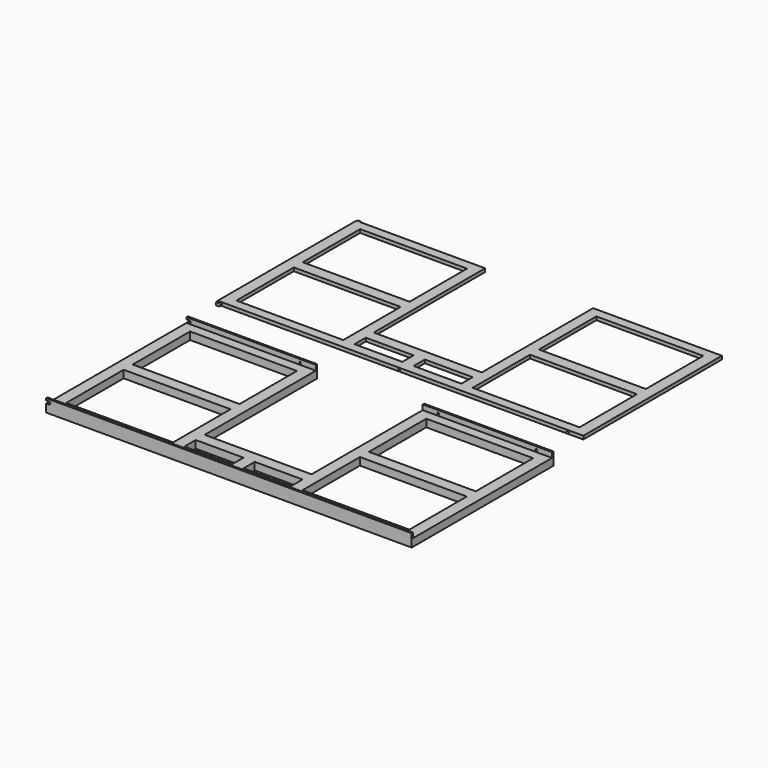
from build123d import *

# Parameters (mm, degrees)
BOX010_W          = 38
BOX010_H          = 25.5
BOX010_DEPTH      = 7.7
BOX009_W          = 38
BOX009_H          = 25.5
BOX009_DEPTH      = 7.7
BOX012_W          = 17
BOX012_H          = 5
BOX012_DEPTH      = 7.7
BOX011_W          = 17
BOX011_H          = 5
BOX011_DEPTH      = 7.7
BOX008_W          = 38
BOX008_H          = 25.5
BOX008_DEPTH      = 7.7
BOX007_W          = 38
BOX007_H          = 25.5
BOX007_DEPTH      = 7.7
BOX004_W          = 38.4
BOX004_H          = 50.2
BOX004_DEPTH      = 8
BOX003_W          = 130
BOX003_H          = 61.6
BOX003_DEPTH      = 1.2
BOX005_W          = 1
BOX005_H          = 63
BOX005_DEPTH      = 1
CYLINDER_R        = 0.5
CYLINDER_DEPTH    = 63
BOX002_W          = 38
BOX002_H          = 51
BOX002_DEPTH      = 6.5
CYLINDER001_R     = 0.5
CYLINDER001_DEPTH = 65
BOX006_W          = 1.5
BOX006_H          = 65
BOX006_DEPTH      = 1
BOX001_W          = 132
BOX001_H          = 61.8
BOX001_DEPTH      = 5.5
BOX_W             = 130
BOX_H             = 63
BOX_DEPTH         = 4.5


with BuildPart() as cube005:
    # Box010 → Box010 (new body)
    with BuildSketch(Plane(origin=(88, 33.5, -1), x_dir=(1, 0, 0), z_dir=(0, 0, 1))):
        with Locations((19, 12.75)):
            Rectangle(BOX010_W, BOX010_H)
    extrude(amount=BOX010_DEPTH)


with BuildPart() as cube004:
    # Box009 → Box009 (new body)
    with BuildSketch(Plane(origin=(4, 33.5, -1), x_dir=(1, 0, 0), z_dir=(0, 0, 1))):
        with Locations((19, 12.75)):
            Rectangle(BOX009_W, BOX009_H)
    extrude(amount=BOX009_DEPTH)


with BuildPart() as cube007:
    # Box012 → Box012 (new body)
    with BuildSketch(Plane(origin=(67, 4, -1), x_dir=(1, 0, 0), z_dir=(0, 0, 1))):
        with Locations((8.5, 2.5)):
            Rectangle(BOX012_W, BOX012_H)
    extrude(amount=BOX012_DEPTH)


with BuildPart() as cube006:
    # Box011 → Box011 (new body)
    with BuildSketch(Plane(origin=(46, 4, -1), x_dir=(1, 0, 0), z_dir=(0, 0, 1))):
        with Locations((8.5, 2.5)):
            Rectangle(BOX011_W, BOX011_H)
    extrude(amount=BOX011_DEPTH)


with BuildPart() as cube003:
    # Box008 → Box008 (new body)
    with BuildSketch(Plane(origin=(88, 4, -1), x_dir=(1, 0, 0), z_dir=(0, 0, 1))):
        with Locations((19, 12.75)):
            Rectangle(BOX008_W, BOX008_H)
    extrude(amount=BOX008_DEPTH)


with BuildPart() as cutaway:
    # Box007 → Box007 (new body)
    with BuildSketch(Plane(origin=(4, 4, -1), x_dir=(1, 0, 0), z_dir=(0, 0, 1))):
        with Locations((19, 12.75)):
            Rectangle(BOX007_W, BOX007_H)
    extrude(amount=BOX007_DEPTH)

    # Fusion006: union Cube005, Cube004, Cube007, Cube006, Cube003
    add(cube005.part)
    add(cube004.part)
    add(cube007.part)
    add(cube006.part)
    add(cube003.part)


with BuildPart() as sphere001:
    # Sphere001 → Sphere001 (revolve)
    with BuildSketch(Plane(origin=(64.45, 0.8, 3.35), x_dir=(1, 0, 0), z_dir=(0, -1, 0))):
        with BuildLine():
            ThreePointArc((0, -0.4), (0.4, 0), (0, 0.4))
            Line((0, 0.4), (0, -0.4))
        make_face()
    revolve(axis=Axis((64.45, 0.8, 3.35), (0, 0, 1)))


with BuildPart() as sphere002:
    # Sphere002 → Sphere002 (revolve)
    with BuildSketch(Plane(origin=(124.45, 62.2, 3.35), x_dir=(1, 0, 0), z_dir=(0, -1, 0))):
        with BuildLine():
            ThreePointArc((0, -0.4), (0.4, 0), (0, 0.4))
            Line((0, 0.4), (0, -0.4))
        make_face()
    revolve(axis=Axis((124.45, 62.2, 3.35), (0, 0, 1)))


with BuildPart() as sphere003:
    # Sphere003 → Sphere003 (revolve)
    with BuildSketch(Plane(origin=(40.45, 62.2, 3.35), x_dir=(1, 0, 0), z_dir=(0, -1, 0))):
        with BuildLine():
            ThreePointArc((0, -0.4), (0.4, 0), (0, 0.4))
            Line((0, 0.4), (0, -0.4))
        make_face()
    revolve(axis=Axis((40.45, 62.2, 3.35), (0, 0, 1)))


with BuildPart() as sphere004:
    # Sphere004 → Sphere004 (revolve)
    with BuildSketch(Plane(origin=(89.55, 62.2, 3.35), x_dir=(1, 0, 0), z_dir=(0, -1, 0))):
        with BuildLine():
            ThreePointArc((0, -0.4), (0.4, 0), (0, 0.4))
            Line((0, 0.4), (0, -0.4))
        make_face()
    revolve(axis=Axis((89.55, 62.2, 3.35), (0, 0, 1)))


with BuildPart() as sphere:
    # Sphere → Sphere (revolve)
    with BuildSketch(Plane(origin=(124.45, 0.8, 3.35), x_dir=(1, 0, 0), z_dir=(0, -1, 0))):
        with BuildLine():
            ThreePointArc((0, -0.4), (0.4, 0), (0, 0.4))
            Line((0, 0.4), (0, -0.4))
        make_face()
    revolve(axis=Axis((124.45, 0.8, 3.35), (0, 0, 1)))


with BuildPart() as hingeclips:
    # Fusion base: copy of Sphere
    add(sphere.part)

    # Fusion: union Sphere001, Sphere002, Sphere003, Sphere004
    add(sphere001.part)
    add(sphere002.part)
    add(sphere003.part)
    add(sphere004.part)


with BuildPart() as coverwindowcutaway:
    # Box004 → Box004 (new body)
    with BuildSketch(Plane(origin=(45.8, 12.8, -1), x_dir=(1, 0, 0), z_dir=(0, 0, 1))):
        with Locations((19.2, 25.1)):
            Rectangle(BOX004_W, BOX004_H)
    extrude(amount=BOX004_DEPTH)


with BuildPart() as coverbase:
    # Box003 → Box003 (new body)
    with BuildSketch(Plane(origin=(0, 0.7, 2.7), x_dir=(1, 0, 0), z_dir=(0, 0, 1))):
        with Locations((65, 30.8)):
            Rectangle(BOX003_W, BOX003_H)
    extrude(amount=BOX003_DEPTH)

    # Cut001: cut coverwindowcutaway
    add(coverwindowcutaway.part, mode=Mode.SUBTRACT)


with BuildPart() as coverbase_1:
    # Cut001 placement: moved
    add(coverbase.part.moved(Location((0, 0, 0.1))))


with BuildPart() as cube:
    # Box005 → Box005 (new body)
    with BuildSketch(Plane.XY.offset(2.8)):
        with Locations((0.5, 31.5)):
            Rectangle(BOX005_W, BOX005_H)
    extrude(amount=BOX005_DEPTH)


with BuildPart() as cutcover:
    # Cylinder → Cylinder (new body)
    with BuildSketch(Plane(origin=(1, 63, 3.3), x_dir=(1, 0, 0), z_dir=(0, -1, 0))):
        Circle(CYLINDER_R)
    extrude(amount=CYLINDER_DEPTH)

    # Fusion001: union Cube
    add(cube.part)

    # Fusion003: union hingeclips, coverbase
    add(hingeclips.part)
    add(coverbase_1.part)

    # Cut002: cut cutaway
    add(cutaway.part, mode=Mode.SUBTRACT)


with BuildPart() as cutcover_1:
    # Cut002 placement: moved
    add(cutcover.part.moved(Location((0, 75.6, 0))))


with BuildPart() as windowcutaway:
    # Box002 → Box002 (new body)
    with BuildSketch(Plane(origin=(46, 13, -1), x_dir=(1, 0, 0), z_dir=(0, 0, 1))):
        with Locations((19, 25.5)):
            Rectangle(BOX002_W, BOX002_H)
    extrude(amount=BOX002_DEPTH)


with BuildPart() as cylinder001:
    # Cylinder001 → Cylinder001 (new body)
    with BuildSketch(Plane(origin=(1, 64, 3.3), x_dir=(1, 0, 0), z_dir=(0, -1, 0))):
        Circle(CYLINDER001_R)
    extrude(amount=CYLINDER001_DEPTH)


with BuildPart() as coverhingecutaway:
    # Box006 → Box006 (new body)
    with BuildSketch(Plane(origin=(-0.5, -1, 2.8), x_dir=(1, 0, 0), z_dir=(0, 0, 1))):
        with Locations((0.75, 32.5)):
            Rectangle(BOX006_W, BOX006_H)
    extrude(amount=BOX006_DEPTH)

    # Fusion002: union Cylinder001
    add(cylinder001.part)


with BuildPart() as hingeclips001:
    # Fusion004 base: copy of Sphere
    add(sphere.part)

    # Fusion004: union Sphere001, Sphere002, Sphere003, Sphere004
    add(sphere001.part)
    add(sphere002.part)
    add(sphere003.part)
    add(sphere004.part)


with BuildPart() as fusion005:
    # Box001 → Box001 (new body)
    with BuildSketch(Plane(origin=(-1, 0.6, 2.7), x_dir=(1, 0, 0), z_dir=(0, 0, 1))):
        with Locations((66, 30.9)):
            Rectangle(BOX001_W, BOX001_H)
    extrude(amount=BOX001_DEPTH)

    # Fusion005: union windowcutaway, coverhingecutaway, hingeclips001
    add(windowcutaway.part)
    add(coverhingecutaway.part)
    add(hingeclips001.part)


with BuildPart() as cut003:
    # Box → Box (new body)
    with BuildSketch(Plane.XY):
        with Locations((65, 31.5)):
            Rectangle(BOX_W, BOX_H)
    extrude(amount=BOX_DEPTH)

    # Cut: cut Fusion005
    add(fusion005.part, mode=Mode.SUBTRACT)

    # Cut003: cut cutaway
    add(cutaway.part, mode=Mode.SUBTRACT)


solid = Compound([cutcover_1.part, cut003.part])
